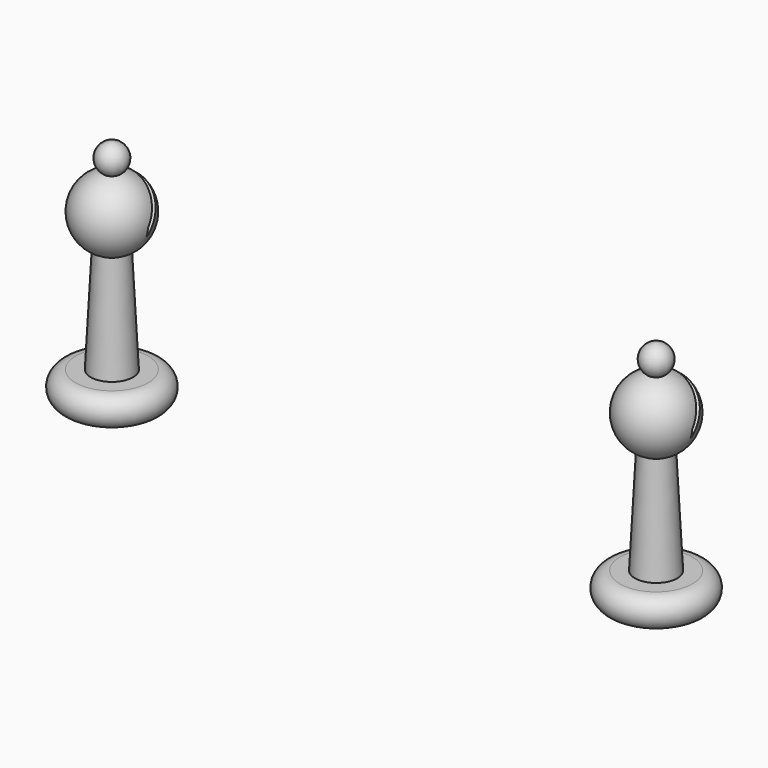
from build123d import *

# Parameters (mm, degrees)
PAD_DEPTH              = 10
CUT001_PLACEMENT_ANGLE = 90
SKETCH023_R            = 3.05
POCKET004_DEPTH        = 3.1
ARRAY001_X_COUNT       = 2
ARRAY001_X_PITCH       = 90


with BuildPart() as pad:
    # Sketch001 → Pad (new body, symmetric)
    with BuildSketch(Plane.XZ):
        Polygon((0, 26), (0, 27.5), (20, 62.141016), (20, 54.56296), align=None)
    extrude(amount=PAD_DEPTH, both=True)


with BuildPart() as array001:
    # Sketch → Revolution (revolve)
    with BuildSketch(Plane.XZ):
        with BuildLine():
            Line((0, 0), (6, 0))
            ThreePointArc((6, 0), (8.5, 2.5), (6, 5))
            Line((6, 5), (0, 5))
            Line((0, 5), (0, 0))
        make_face()
        with BuildLine():
            Line((0, 5), (3.5, 5))
            Line((3.5, 5), (2.6, 22.592598))
            ThreePointArc((2.6, 22.592598), (5.966106, 28.63685), (1.4, 33.834381))
            ThreePointArc((1.4, 33.834381), (2.284564, 36.51911), (0, 38.18374))
            Line((0, 5), (0, 38.18374))
        make_face()
    revolve(axis=Axis((0, 0, 0), (0, 0, 1)))

    # Cut001: cut Pad
    add(pad.part, mode=Mode.SUBTRACT)


with BuildPart() as array001_1:
    # Cut001 placement: moved
    add(array001.part.moved(Location((60, 0, 0))).rotate(Axis((60, 0, 0), (0, 0, 1)), CUT001_PLACEMENT_ANGLE))

    # Sketch023 → Pocket004 (cut)
    with BuildSketch(Plane(origin=(60, 0, 0), x_dir=(0, 1, 0), z_dir=(0, 0, -1))):
        Circle(SKETCH023_R)
    extrude(amount=-POCKET004_DEPTH, mode=Mode.SUBTRACT)

    # Array001 X: Array001 ×2


with BuildPart() as array001_2:
    add(array001_1.part)
    with Locations(*[(i * ARRAY001_X_PITCH, 0, 0) for i in range(1, ARRAY001_X_COUNT)]):
        add(array001_1.part)


solid = array001_2.part
